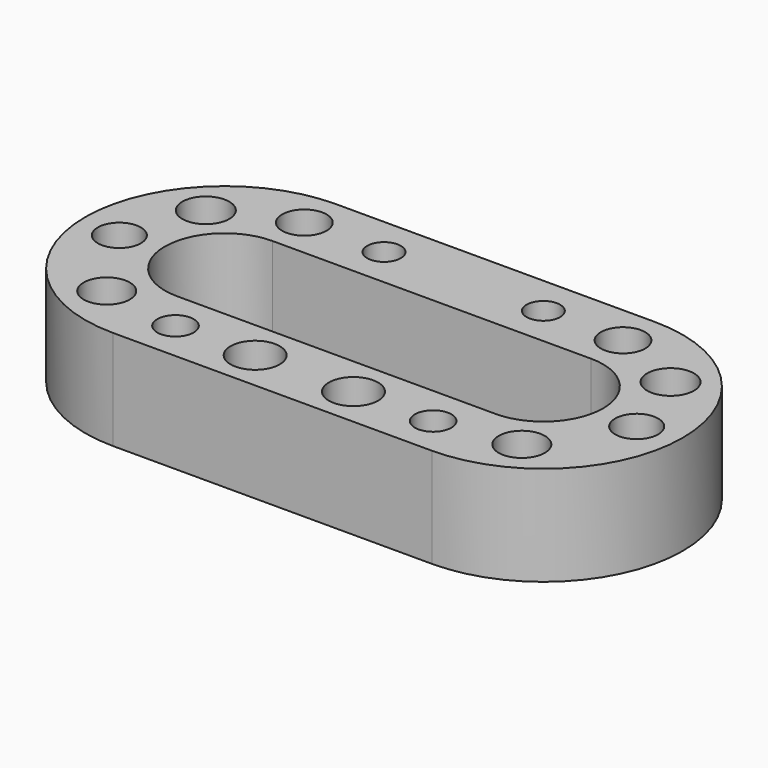
from build123d import *

# Parameters (mm, degrees)
F0_R     = 5.787614
F0_R_2   = 4.570126
F0_R_3   = 6.182669
F0_R_4   = 5.400147
F0_R_5   = 5.88889
F0_R_6   = 5.572539
F0_R_7   = 4.211108
F1_DEPTH = 25


with BuildPart() as f1:
    # F0 (on Top) → F1 (new body)
    with BuildSketch(Plane.XY):
        with BuildLine():
            Line((0, 35), (-80, 35))
            ThreePointArc((-80, 35), (-115, 0), (-80, -35))
            Line((-80, -35), (0, -35))
            ThreePointArc((0, -35), (35, 0), (0, 35))
        make_face()
        with Locations((-92.094032, -21.88)):
            Circle(F0_R, mode=Mode.SUBTRACT)
        with Locations((-72.33889, -25)):
            Circle(F0_R_2, mode=Mode.SUBTRACT)
        with Locations((-52.33889, -25)):
            Circle(F0_R_3, mode=Mode.SUBTRACT)
        with Locations((-104.929212, -1.88)):
            Circle(F0_R_4, mode=Mode.SUBTRACT)
        with Locations((-27.66111, -25)):
            Circle(F0_R_3, mode=Mode.SUBTRACT)
        with Locations((-7.66111, -25)):
            Circle(F0_R_2, mode=Mode.SUBTRACT)
        with Locations((12.094032, -21.88)):
            Circle(F0_R, mode=Mode.SUBTRACT)
        with Locations((24.929212, -1.88)):
            Circle(F0_R_4, mode=Mode.SUBTRACT)
        with Locations((-98.330303, 17)):
            Circle(F0_R_5, mode=Mode.SUBTRACT)
        with Locations((-80, 25)):
            Circle(F0_R_6, mode=Mode.SUBTRACT)
        with Locations((-60, 25)):
            Circle(F0_R_7, mode=Mode.SUBTRACT)
        with BuildLine():
            ThreePointArc((-80, -15), (-95, 0), (-80, 15))
            Line((-80, 15), (0, 15))
            ThreePointArc((0, 15), (15, 0), (0, -15))
            Line((0, -15), (-80, -15))
        make_face(mode=Mode.SUBTRACT)
        with Locations((18.330303, 17)):
            Circle(F0_R_5, mode=Mode.SUBTRACT)
        with Locations((-20, 25)):
            Circle(F0_R_7, mode=Mode.SUBTRACT)
        with Locations((0, 25)):
            Circle(F0_R_6, mode=Mode.SUBTRACT)
    extrude(amount=F1_DEPTH)


solid = f1.part
